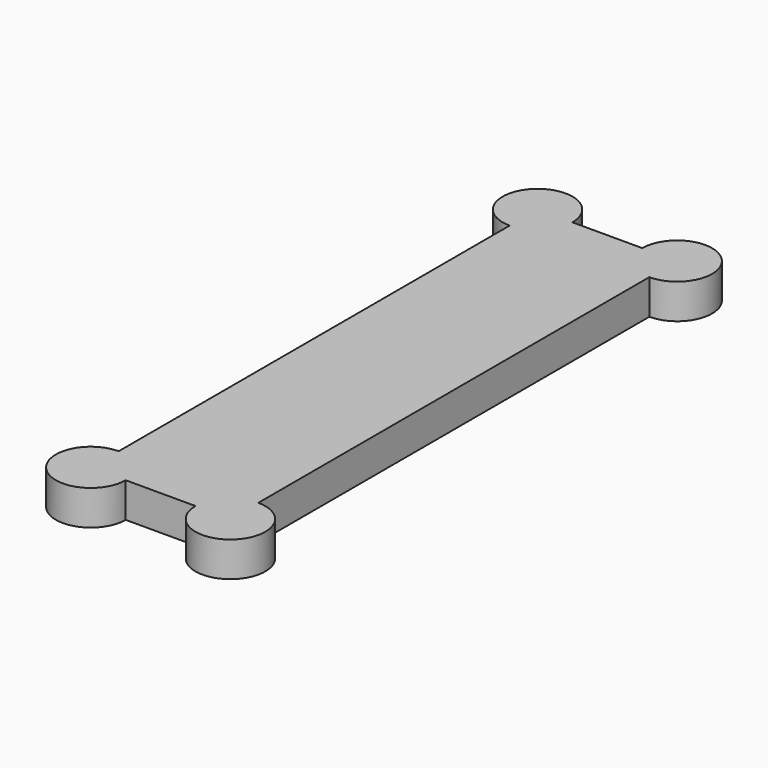
from build123d import *

# Parameters (mm, degrees)
F0_W     = 254
F0_H     = 254
F1_DEPTH = 6.35
F2_W     = 254
F2_H     = 254
F3_DEPTH = 25.4


with BuildPart() as f1:
    # F0 (on Top) → F1 (new body)
    with BuildSketch(Plane.XY):
        Rectangle(F0_W, F0_H)
        Rectangle(F0_W, F0_H)
    extrude(amount=F1_DEPTH)

    # F2 (on face) → F3 (cut)
    with BuildSketch(Plane(origin=(0, 0, 0), x_dir=(1, 0, 0), z_dir=(0, 0, -1))):
        Rectangle(F2_W, F2_H)
        with BuildLine():
            ThreePointArc((-100.547802, 95.25), (-105.03793, 106.090128), (-94.197802, 101.6))
            Line((-94.197802, 101.6), (-81.497802, 101.6))
            ThreePointArc((-81.497802, 101.6), (-70.657674, 106.090128), (-75.147802, 95.25))
            Line((-75.147802, 95.25), (-75.147802, 6.35))
            ThreePointArc((-75.147802, 6.35), (-70.657674, -4.490128), (-81.497802, 0))
            Line((-81.497802, 0), (-94.197802, 0))
            ThreePointArc((-94.197802, 0), (-105.03793, -4.490128), (-100.547802, 6.35))
            Line((-100.547802, 6.35), (-100.547802, 95.25))
        make_face(mode=Mode.SUBTRACT)
    extrude(amount=-F3_DEPTH, mode=Mode.SUBTRACT)


solid = f1.part
